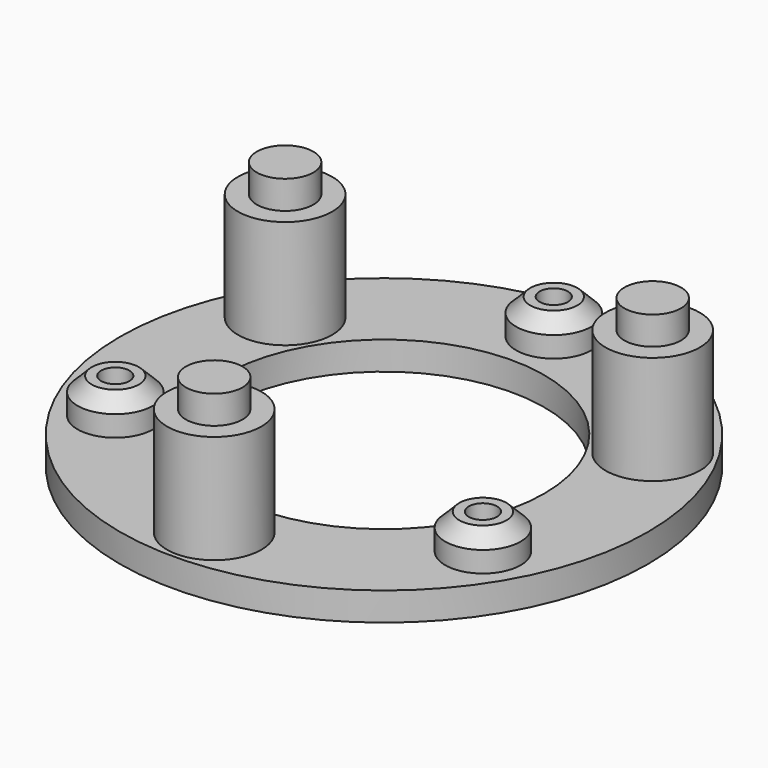
from build123d import *

# Parameters (mm, degrees)
SKETCH_R              = 28
SKETCH_R_2            = 17
PAD_DEPTH             = 3
SKETCH001_R           = 4
PAD001_DEPTH          = 3.7
SKETCH003_R           = 1.5
POCKET001_DEPTH       = 6.701
SKETCH005_R           = 5
PAD002_DEPTH          = 11.5
POLARPATTERN_COUNT    = 3
CHAMFER_SIZE          = 1.5
CHAMFER001_SIZE       = 1.5
CHAMFER002_SIZE       = 1.5
SKETCH007_R           = 3.1
POCKET_DEPTH          = 175.525843
POLARPATTERN002_COUNT = 3
SKETCH006_R           = 3
PAD003_DEPTH          = 3
POLARPATTERN001_COUNT = 3
SKETCH008_R           = 3
POCKET002_DEPTH       = 12
POLARPATTERN003_COUNT = 3


with BuildPart() as chamfer002:
    # Sketch → Pad (new body)
    with BuildSketch(Plane.XY.offset(25)):
        Circle(SKETCH_R)
        Circle(SKETCH_R_2, mode=Mode.SUBTRACT)
    extrude(amount=PAD_DEPTH)

    # Sketch001 → Pad001 (new body)
    with BuildSketch(Plane.XY.offset(28)):
        with Locations((0, 22.5)):
            Circle(SKETCH001_R)
        with Locations((-19.485572, -11.25)):
            Circle(SKETCH001_R)
        with Locations((19.485572, -11.25)):
            Circle(SKETCH001_R)
    extrude(amount=PAD001_DEPTH)

    # Sketch003 → Pocket001 (cut, through all)
    with BuildSketch(Plane.XY.offset(31.7)):
        with Locations((0, 22.5)):
            Circle(SKETCH003_R)
        with Locations((-19.485572, -11.25)):
            Circle(SKETCH003_R)
        with Locations((19.485572, -11.25)):
            Circle(SKETCH003_R)
    extrude(amount=-POCKET001_DEPTH, mode=Mode.SUBTRACT)

    # Sketch005 → Pad002 (new body)
    with BuildSketch(Plane.XY.offset(28)):
        with Locations((0, -22.5)):
            Circle(SKETCH005_R)
    pad002 = extrude(amount=PAD002_DEPTH)

    # PolarPattern: Pad002 ×3 about axis
    polarpattern_axis = Axis((0, 0, 28), (0, 0, 1))
    for i in range(1, POLARPATTERN_COUNT):
        add(pad002.rotate(polarpattern_axis, i * 360 / POLARPATTERN_COUNT))

    # Chamfer
    chamfer_edges = [chamfer002.edges().sort_by_distance(p)[0] for p in [
        (-23.485572, -11.25, 31.7),
    ]]
    chamfer(chamfer_edges, length=CHAMFER_SIZE)

    # Chamfer001
    chamfer001_edges = [chamfer002.edges().sort_by_distance(p)[0] for p in [
        (15.485572, -11.25, 31.7),
    ]]
    chamfer(chamfer001_edges, length=CHAMFER001_SIZE)

    # Chamfer002
    chamfer002_edges = [chamfer002.edges().sort_by_distance(p)[0] for p in [
        (-4, 22.5, 31.7),
    ]]
    chamfer(chamfer002_edges, length=CHAMFER002_SIZE)


with BuildPart() as obj1:
    # Pocket base: copy of Chamfer002
    add(chamfer002.part)

    # Sketch007 → Pocket (cut, through all)
    with BuildSketch(Plane.XY.offset(39.5)):
        with Locations((0, -22.5)):
            Circle(SKETCH007_R)
    pocket = extrude(amount=-POCKET_DEPTH, mode=Mode.SUBTRACT)

    # PolarPattern002: Pocket ×3 about axis
    polarpattern002_axis = Axis((0, 0, 39.5), (0, 0, 1))
    for i in range(1, POLARPATTERN002_COUNT):
        add(pocket.rotate(polarpattern002_axis, i * 360 / POLARPATTERN002_COUNT), mode=Mode.SUBTRACT)


with BuildPart() as obj2:
    # Pad003 base: copy of Chamfer002
    add(chamfer002.part)

    # Sketch006 → Pad003 (new body)
    with BuildSketch(Plane.XY.offset(39.5)):
        with Locations((0, -22.5)):
            Circle(SKETCH006_R)
    pad003 = extrude(amount=PAD003_DEPTH)

    # PolarPattern001: Pad003 ×3 about axis
    polarpattern001_axis = Axis((0, 0, 39.5), (0, 0, 1))
    for i in range(1, POLARPATTERN001_COUNT):
        add(pad003.rotate(polarpattern001_axis, i * 360 / POLARPATTERN001_COUNT))

    # Sketch008 → Pocket002 (cut)
    with BuildSketch(Plane(origin=(0, 0, 25), x_dir=(1, 0, 0), z_dir=(0, 0, -1))):
        with Locations((0, 22.5)):
            Circle(SKETCH008_R)
    pocket002 = extrude(amount=-POCKET002_DEPTH, mode=Mode.SUBTRACT)

    # PolarPattern003: Pocket002 ×3 about axis
    polarpattern003_axis = Axis((0, 0, 25), (0, 0, -1))
    for i in range(1, POLARPATTERN003_COUNT):
        add(pocket002.rotate(polarpattern003_axis, i * 360 / POLARPATTERN003_COUNT), mode=Mode.SUBTRACT)


solid = Compound([obj1.part, obj2.part])
